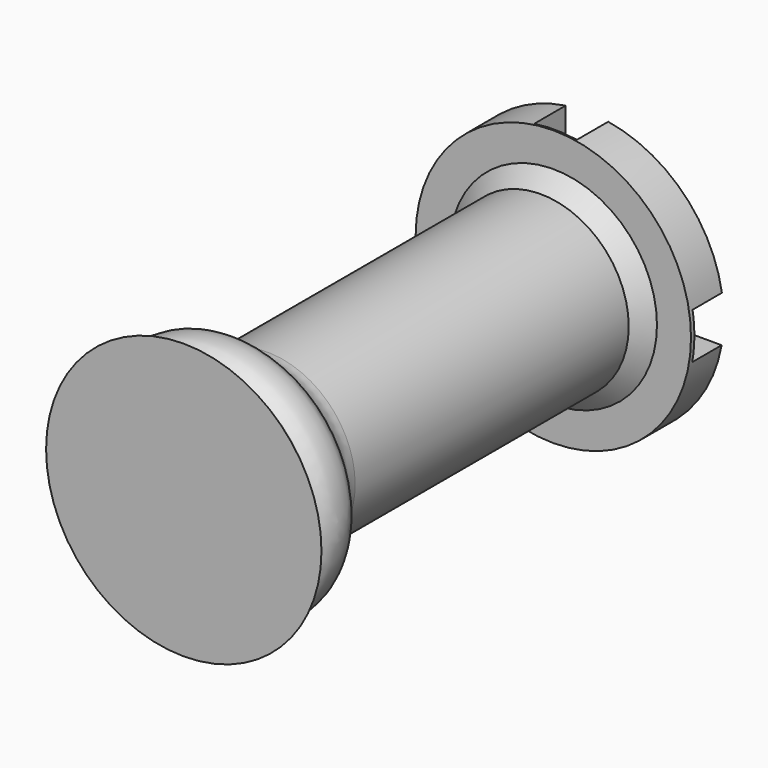
from build123d import *

# Parameters (mm, degrees)
F2_R     = 5.08
F3_SIZE  = 2.54
F4_W     = 6.907339
F4_H     = 51.517231
F5_DEPTH = 6.35
F6_W     = 52.092841
F6_H     = 7.48295
F7_DEPTH = 5.9436
F8_W     = 6.907339
F8_H     = 7.284426
F9_DEPTH = 6.604


with BuildPart() as f1:
    # F0 (on Top) → F1 (revolve)
    with BuildSketch(Plane.XY):
        Polygon((22.304947, 47.919661), (0, 47.919661), (0, -33.52937), (22.304947, -33.52937), (18.717232, -30.197919), (22.304947, -26.334228), (14.246386, -18.851276), (14.246386, 41.300129), (22.304947, 41.300129), align=None)
    revolve(axis=Axis((0, 7.195146, 0), (0, -1, 0)))

    # F2
    f2_edges = [f1.edges().sort_by_distance(p)[0] for p in [
        (-22.304947, -26.334228, 0),
        (-14.246386, -18.851276, 0),
    ]]
    fillet(f2_edges, radius=F2_R)

    # F3
    f3_edges = [f1.edges().sort_by_distance(p)[0] for p in [
        (14.246386, 12.332043, 0),
        (-14.246383, -16.636044, 0),
        (-14.246386, 41.300129, 0),
    ]]
    chamfer(f3_edges, length=F3_SIZE)

    # F4 (on face) → F5 (cut)
    with BuildSketch(Plane(origin=(0, 47.919661, 0), x_dir=(-1, 0, 0), z_dir=(0, 1, 0))):
        with Locations((-0.143903, 0.575613)):
            Rectangle(F4_W, F4_H)
    extrude(amount=-F5_DEPTH, mode=Mode.SUBTRACT)

    # F6 (on face) → F7 (cut)
    with BuildSketch(Plane(origin=(0, 47.919661, 0), x_dir=(-1, 0, 0), z_dir=(0, 1, 0))):
        with Locations((0.287805, -0.143903)):
            Rectangle(F6_W, F6_H)
    extrude(amount=-F7_DEPTH, mode=Mode.SUBTRACT)

    # F8 (on face) → F9 (join)
    with BuildSketch(Plane(origin=(0, 41.569661, 0), x_dir=(-1, 0, 0), z_dir=(0, 1, 0))):
        with Locations((-0.143903, 0.12047)):
            Rectangle(F8_W, F8_H)
    extrude(amount=F9_DEPTH)


solid = f1.part
